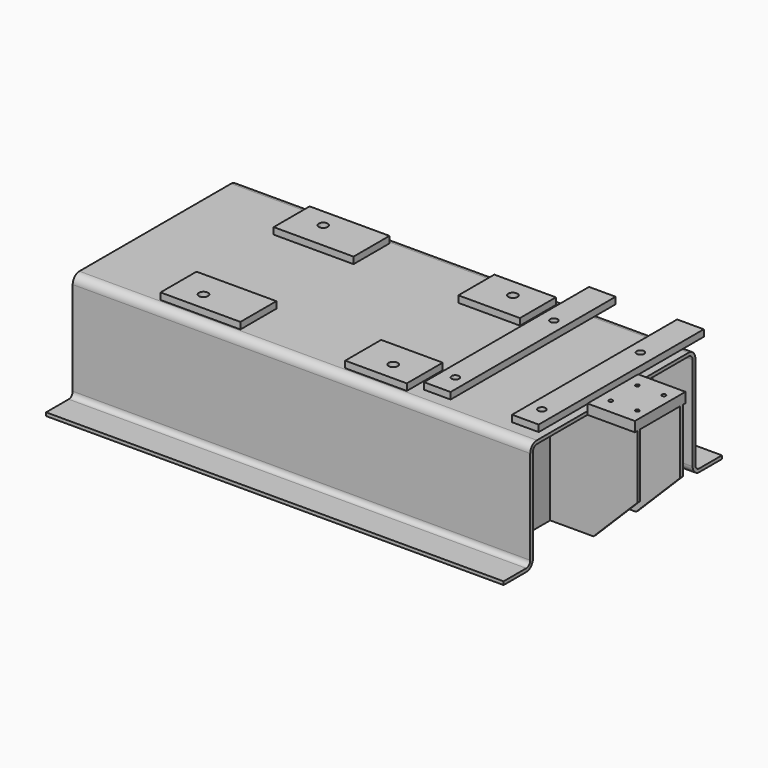
from build123d import *

# Parameters (mm, degrees)
F1_DEPTH  = 873.125
F4_DEPTH  = 12.7
F5_W      = 304.8
F5_H      = 171.45
F5_R      = 17.4625
F5_W_2    = 234.95
F6_DEPTH  = 25.4
F7_W      = 101.6
F7_H      = 787.4
F7_R      = 14.2875
F8_DEPTH  = 25.4
F9_W      = 180.848
F9_H      = 241.3
F10_DEPTH = 12.7
F12_W     = 333.248
F12_H     = 409.448
F13_DEPTH = 12.7
F14_SIZE  = 168.148
F16_R     = 7.14375
F17_DEPTH = 422.149
F18_W     = 180.848
F18_H     = 241.3
F18_R     = 7.324206161
F18_R_2   = 7.2547005792
F18_R_3   = 7.130511654
F18_R_4   = 7.4581094532
F19_DEPTH = 25.4


with BuildPart() as f1:
    # F0 (on Right) → F1 (new body, symmetric)
    with BuildSketch(Plane.YZ):
        with BuildLine():
            Line((361.95, 211.074), (-361.95, 211.074))
            ThreePointArc((-361.95, 211.074), (-384.4006403027, 201.7746403027), (-393.7, 179.324))
            Line((-393.7, 179.324), (-393.7, -179.324))
            ThreePointArc((-393.7, -179.324), (-399.2796158184, -192.7943841816), (-412.75, -198.374))
            Line((-412.75, -198.374), (-520.7, -198.374))
            Line((-520.7, -198.374), (-520.7, -211.074))
            Line((-520.7, -211.074), (-412.75, -211.074))
            ThreePointArc((-412.75, -211.074), (-390.2993596973, -201.7746403027), (-381, -179.324))
            Line((-381, -179.324), (-381, 179.324))
            ThreePointArc((-381, 179.324), (-375.4203841816, 192.7943841816), (-361.95, 198.374))
            Line((-361.95, 198.374), (361.95, 198.374))
            ThreePointArc((361.95, 198.374), (375.4203841816, 192.7943841816), (381, 179.324))
            Line((381, 179.324), (381, -179.324))
            ThreePointArc((381, -179.324), (390.2993596973, -201.7746403027), (412.75, -211.074))
            Line((412.75, -211.074), (520.7, -211.074))
            Line((520.7, -211.074), (520.7, -198.374))
            Line((520.7, -198.374), (412.75, -198.374))
            ThreePointArc((412.75, -198.374), (399.2796158184, -192.7943841816), (393.7, -179.324))
            Line((393.7, -179.324), (393.7, 179.324))
            ThreePointArc((393.7, 179.324), (384.4006403027, 201.7746403027), (361.95, 211.074))
        make_face()
    extrude(amount=F1_DEPTH, both=True)

    # F5 (on face) → F6 (join)
    with BuildSketch(Plane.XY.offset(211.074)):
        with Locations((-415.925, -269.875)):
            Rectangle(F5_W, F5_H)
        with Locations((-460.375, -285.75)):
            Circle(F5_R, mode=Mode.SUBTRACT)
        with Locations((254, -269.875)):
            Rectangle(F5_W_2, F5_H)
        with Locations((263.525, -285.75)):
            Circle(F5_R, mode=Mode.SUBTRACT)
        with Locations((-415.925, 269.875)):
            Rectangle(F5_W, F5_H)
        with Locations((-460.375, 285.75)):
            Circle(F5_R, mode=Mode.SUBTRACT)
        with Locations((254, 269.875)):
            Rectangle(F5_W_2, F5_H)
        with Locations((263.525, 285.75)):
            Circle(F5_R, mode=Mode.SUBTRACT)
    extrude(amount=F6_DEPTH)

    # F7 (on face) → F8 (join)
    with BuildSketch(Plane.XY.offset(211.074)):
        with Locations((457.327, 76.2)):
            Rectangle(F7_W, F7_H)
        with Locations((460.375, -234.95)):
            Circle(F7_R, mode=Mode.SUBTRACT)
        with Locations((460.375, 234.95)):
            Circle(F7_R, mode=Mode.SUBTRACT)
        with Locations((793.623, 76.2)):
            Rectangle(F7_W, F7_H)
        with Locations((790.575, -234.95)):
            Circle(F7_R, mode=Mode.SUBTRACT)
        with Locations((790.575, 234.95)):
            Circle(F7_R, mode=Mode.SUBTRACT)
    extrude(amount=F8_DEPTH)

    # F9 (on face) → F10 (join)
    with BuildSketch(Plane.XY.offset(211.074)):
        with Locations((963.549, 0)):
            Rectangle(F9_W, F9_H)
    extrude(amount=-F10_DEPTH)



with BuildPart() as f4:
    # F3 (on offset) → F4 (new body)
    with BuildSketch(Plane.YZ.offset(720.725)):
        Polygon((361.95, 198.374), (-361.95, 198.374), (-381, 179.324), (-381, -211.074), (381, -211.074), (381, 179.324), align=None)
    extrude(amount=-F4_DEPTH)


with BuildPart() as f13:
    # F12 (on offset) → F13 (new body)
    with BuildSketch(Plane.XZ.offset(-95.25)):
        with Locations((887.349, -6.35)):
            Rectangle(F12_W, F12_H)
    extrude(amount=-F13_DEPTH)

    # F14
    f14_edges = [f13.edges().sort_by_distance(p)[0] for p in [
        (1053.973, 101.6, -211.074),
    ]]
    chamfer(f14_edges, length=F14_SIZE)


with BuildPart() as f1_1:
    add(f1.part)

    add(f4.part)  # F15 merges F4
    # F15: F13 across plane
    add(f13.part.mirror(Plane.XZ))

    # F16 (on face) → F17 (cut, through all)
    with BuildSketch(Plane.XY.offset(211.074)):
        with Locations((916.051, 63.5)):
            Circle(F16_R)
        with Locations((1017.651, 63.5)):
            Circle(F16_R)
        with Locations((1017.651, -63.5)):
            Circle(F16_R)
        with Locations((916.051, -63.5)):
            Circle(F16_R)
    extrude(amount=-F17_DEPTH, mode=Mode.SUBTRACT)


    add(f13.part)  # F19 merges F13
    # F18 (on face) → F19 (join)
    with BuildSketch(Plane.XY.offset(211.074)):
        with Locations((963.549, 0)):
            Rectangle(F18_W, F18_H)
        with Locations((916.051, -63.5)):
            Circle(F18_R, mode=Mode.SUBTRACT)
        with Locations((1017.651, -63.5)):
            Circle(F18_R_2, mode=Mode.SUBTRACT)
        with Locations((916.051, 63.5)):
            Circle(F18_R_3, mode=Mode.SUBTRACT)
        with Locations((1017.651, 63.5)):
            Circle(F18_R_4, mode=Mode.SUBTRACT)
    extrude(amount=F19_DEPTH)


solid = f1_1.part
